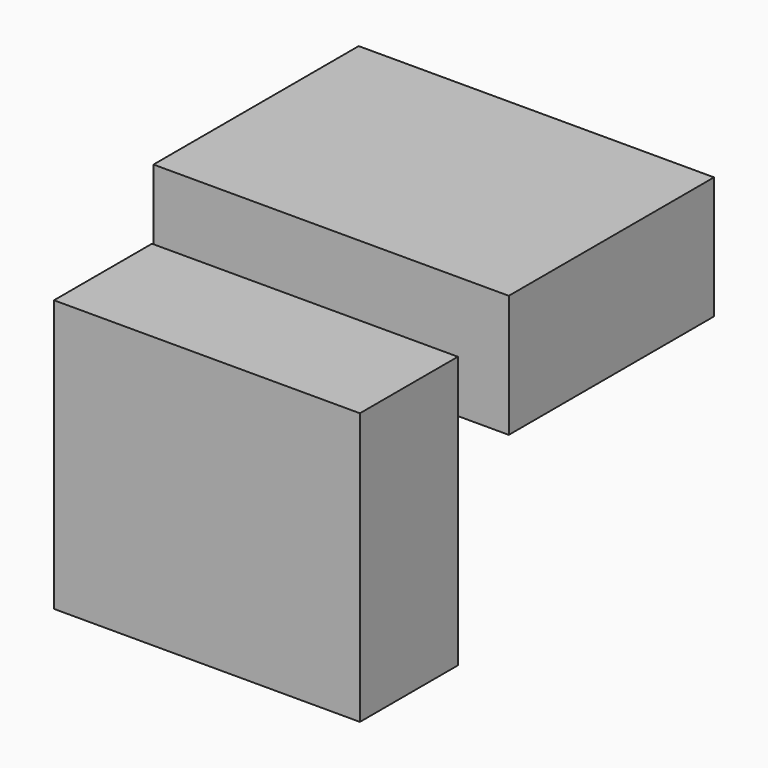
from build123d import *

# Parameters (mm, degrees)
F0_W     = 63.456208
F0_H     = 56.361724
F1_DEPTH = 25.4
F2_W     = 73.703793
F2_H     = 53.208616
F3_DEPTH = 25.4
F4_T     = -2.54
F4_2_T   = -2.54


with BuildPart() as f1:
    # F0 (on Front) → F1 (new body)
    with BuildSketch(Plane.XZ):
        Rectangle(F0_W, F0_H)
    extrude(amount=F1_DEPTH)

    # F4#2
    f4_2_openings = [f1.faces().sort_by_distance(p)[0] for p in [
        (0, 0, 0),
    ]]
    offset(amount=F4_2_T, openings=f4_2_openings)


with BuildPart() as f3:
    # F2 (on Top) → F3 (new body)
    with BuildSketch(Plane.XY):
        with Locations((-15.371379, 52.617412)):
            Rectangle(F2_W, F2_H)
    extrude(amount=F3_DEPTH)

    # F4
    f4_openings = [f3.faces().sort_by_distance(p)[0] for p in [
        (-15.371379, 52.617412, 0),
    ]]
    offset(amount=F4_T, openings=f4_openings)


solid = Compound([f1.part, f3.part])
